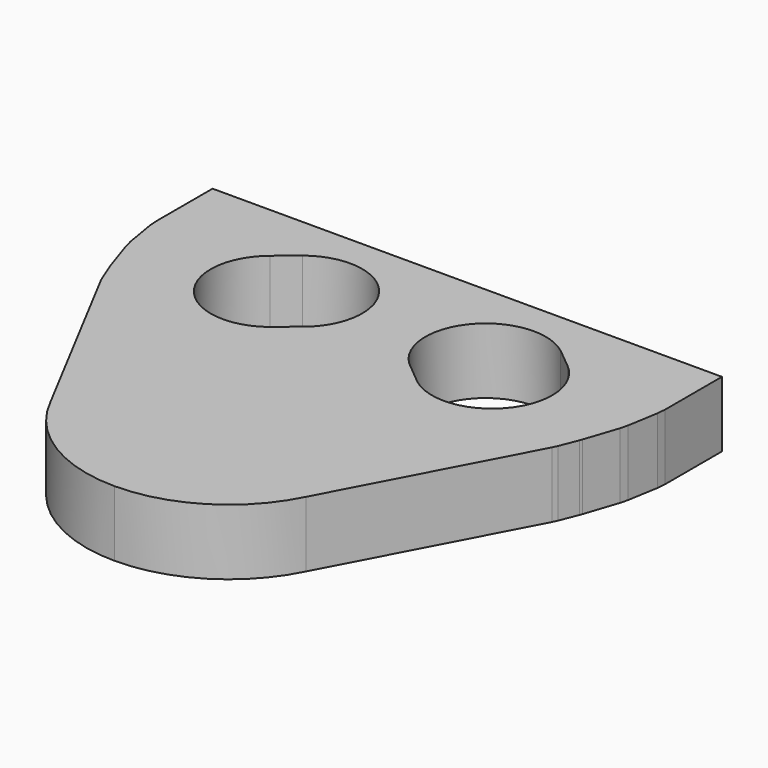
from build123d import *

# Parameters (mm, degrees)
F1_DEPTH = 4


with BuildPart() as f1:
    # F0 (on Top) → F1 (new body)
    with BuildSketch(Plane.XY):
        with BuildLine():
            Line((0, -23.741776), (0, 0))
            Line((0, 0), (-12.5, 0))
            Line((-12.5, 0), (-15.5, 0))
            Line((-15.5, 0), (-15.5, -4.3325))
            Line((-15.5, -4.3325), (-15.457999, -4.832742))
            Line((-15.457999, -4.832742), (-15.141206, -6.705982))
            Line((-15.141206, -6.705982), (-15.029257, -7.154422))
            Line((-15.029257, -7.154422), (-14.352191, -9.185621))
            Line((-14.352191, -9.185621), (-14.295931, -9.340147))
            Line((-14.295931, -9.340147), (-13.870512, -10.415947))
            Line((-13.870512, -10.415947), (-13.734117, -10.712556))
            Line((-13.734117, -10.712556), (-7.782776, -21.993459))
            ThreePointArc((-7.782776, -21.993459), (-4.579278, -25.516799), (0, -26.823145))
            Line((0, -26.823145), (0, -23.741776))
        make_face()
        with BuildLine():
            Line((-9.056534, -3.694688), (-7.853357, -2.704581))
            ThreePointArc((-7.853357, -2.704581), (-2.840883, -3.156518), (-3.007137, -8.186578))
            Line((-3.007137, -8.186578), (-4.200585, -9.17746))
            ThreePointArc((-4.200585, -9.17746), (-9.471274, -8.953792), (-9.056534, -3.694688))
        make_face(mode=Mode.SUBTRACT)
    extrude(amount=-F1_DEPTH)

    # F2: F1 across plane


with BuildPart() as f1_1:
    add(f1.part)
    add(f1.part.mirror(Plane.YZ))


solid = f1_1.part
